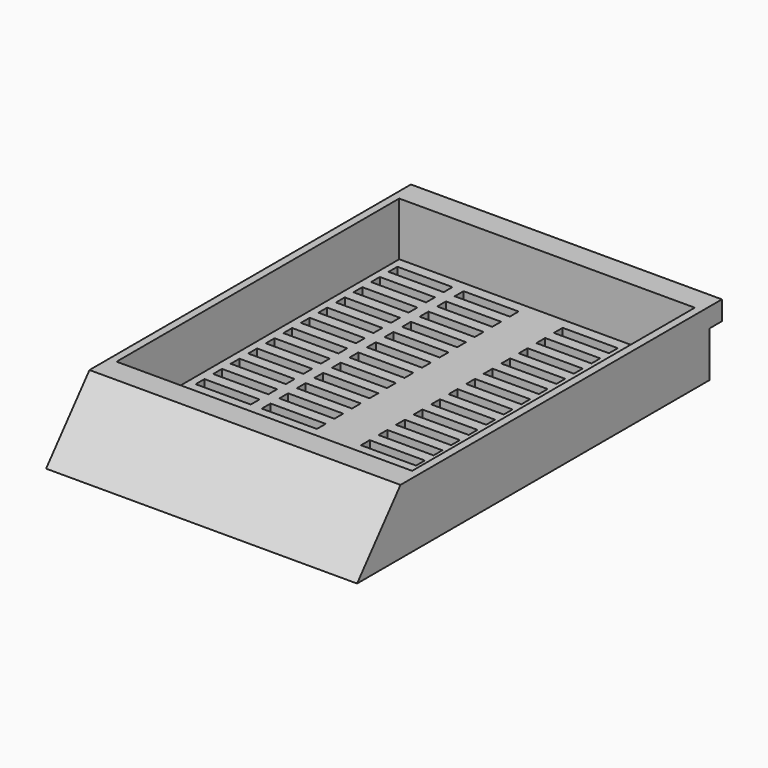
from build123d import *

# Parameters (mm, degrees)
F0_W     = 28.22
F0_H     = 39.98
F1_DEPTH = 5.88
F3_DEPTH = 28.22
F4_W     = 28.22
F4_H     = 1.75
F5_DEPTH = 1.4
F7_DEPTH = 4.85
F8_W     = 5
F8_H     = 1
F9_DEPTH = 25.4


with BuildPart() as f1:
    # F0 (on Top) → F1 (new body)
    with BuildSketch(Plane.XY):
        with Locations((1.965678, -9.638943)):
            Rectangle(F0_W, F0_H)
    extrude(amount=F1_DEPTH)

    # F2 (on face) → F3 (cut, through all)
    with BuildSketch(Plane(origin=(-12.144322, 0, 0), x_dir=(0, -1, 0), z_dir=(-1, 0, 0))):
        Polygon((24.708943, 5.88), (29.628943, 0), (29.628943, 5.88), align=None)
    extrude(amount=-F3_DEPTH, mode=Mode.SUBTRACT)

    # F4 (on face) → F5 (join)
    with BuildSketch(Plane(origin=(0, 10.351057, 0), x_dir=(-1, 0, 0), z_dir=(0, 1, 0))):
        with Locations((-1.965678, 5.005)):
            Rectangle(F4_W, F4_H)
    extrude(amount=F5_DEPTH)

    # F6 (on face) → F7 (cut)
    with BuildSketch(Plane.XY.offset(5.88)):
        Polygon((13.608205, 9.551057), (-11.444322, 9.551057), (-11.444322, -6.478943), (-11.444322, -22.508943), (15.375678, -22.508943), (15.375678, -6.478943), (15.375678, 9.551057), align=None)
    extrude(amount=-F7_DEPTH, mode=Mode.SUBTRACT)

    # F8 (on face) → F9 (cut)
    with BuildSketch(Plane.XY.offset(5.88)):
        with Locations((-8.3264, 8.06845)):
            Rectangle(F8_W, F8_H)
        with Locations((-2.3264, 8.06845)):
            Rectangle(F8_W, F8_H)
        with Locations((12.6736, 8.06845)):
            Rectangle(F8_W, F8_H)
        with Locations((6.6736, 8.06845)):
            Rectangle(F8_W, F8_H)
        with Locations((-2.317806, 6.068468)):
            Rectangle(F8_W, F8_H)
        with Locations((12.682194, 6.068468)):
            Rectangle(F8_W, F8_H)
        with Locations((6.682194, 6.068468)):
            Rectangle(F8_W, F8_H)
        with Locations((-8.317806, 6.068468)):
            Rectangle(F8_W, F8_H)
        with Locations((-2.309211, 4.068486)):
            Rectangle(F8_W, F8_H)
        with Locations((12.690789, 4.068486)):
            Rectangle(F8_W, F8_H)
        with Locations((6.690789, 4.068486)):
            Rectangle(F8_W, F8_H)
        with Locations((-8.309211, 4.068486)):
            Rectangle(F8_W, F8_H)
        with Locations((-2.300617, 2.068505)):
            Rectangle(F8_W, F8_H)
        with Locations((12.699383, 2.068505)):
            Rectangle(F8_W, F8_H)
        with Locations((6.699383, 2.068505)):
            Rectangle(F8_W, F8_H)
        with Locations((-8.300617, 2.068505)):
            Rectangle(F8_W, F8_H)
        with Locations((-2.292023, 0.068523)):
            Rectangle(F8_W, F8_H)
        with Locations((12.707977, 0.068523)):
            Rectangle(F8_W, F8_H)
        with Locations((6.707977, 0.068523)):
            Rectangle(F8_W, F8_H)
        with Locations((-8.292023, 0.068523)):
            Rectangle(F8_W, F8_H)
        with Locations((-2.283429, -1.931458)):
            Rectangle(F8_W, F8_H)
        with Locations((12.716571, -1.931458)):
            Rectangle(F8_W, F8_H)
        with Locations((6.716571, -1.931458)):
            Rectangle(F8_W, F8_H)
        with Locations((-8.283429, -1.931458)):
            Rectangle(F8_W, F8_H)
        with Locations((-2.274835, -3.93144)):
            Rectangle(F8_W, F8_H)
        with Locations((12.725165, -3.93144)):
            Rectangle(F8_W, F8_H)
        with Locations((6.725165, -3.93144)):
            Rectangle(F8_W, F8_H)
        with Locations((-8.274835, -3.93144)):
            Rectangle(F8_W, F8_H)
        with Locations((-2.266241, -5.931421)):
            Rectangle(F8_W, F8_H)
        with Locations((12.733759, -5.931421)):
            Rectangle(F8_W, F8_H)
        with Locations((6.733759, -5.931421)):
            Rectangle(F8_W, F8_H)
        with Locations((-8.266241, -5.931421)):
            Rectangle(F8_W, F8_H)
        with Locations((-2.257646, -7.931403)):
            Rectangle(F8_W, F8_H)
        with Locations((12.742354, -7.931403)):
            Rectangle(F8_W, F8_H)
        with Locations((6.742354, -7.931403)):
            Rectangle(F8_W, F8_H)
        with Locations((-8.257646, -7.931403)):
            Rectangle(F8_W, F8_H)
        with Locations((-2.249052, -9.931384)):
            Rectangle(F8_W, F8_H)
        with Locations((12.750948, -9.931384)):
            Rectangle(F8_W, F8_H)
        with Locations((6.750948, -9.931384)):
            Rectangle(F8_W, F8_H)
        with Locations((-8.249052, -9.931384)):
            Rectangle(F8_W, F8_H)
        with Locations((-2.240458, -11.931366)):
            Rectangle(F8_W, F8_H)
        with Locations((12.759542, -11.931366)):
            Rectangle(F8_W, F8_H)
        with Locations((6.759542, -11.931366)):
            Rectangle(F8_W, F8_H)
        with Locations((-8.240458, -11.931366)):
            Rectangle(F8_W, F8_H)
        with Locations((-2.231864, -13.931347)):
            Rectangle(F8_W, F8_H)
        with Locations((12.768136, -13.931347)):
            Rectangle(F8_W, F8_H)
        with Locations((6.768136, -13.931347)):
            Rectangle(F8_W, F8_H)
        with Locations((-8.231864, -13.931347)):
            Rectangle(F8_W, F8_H)
        with Locations((-2.22327, -15.931329)):
            Rectangle(F8_W, F8_H)
        with Locations((12.77673, -15.931329)):
            Rectangle(F8_W, F8_H)
        with Locations((6.77673, -15.931329)):
            Rectangle(F8_W, F8_H)
        with Locations((-8.22327, -15.931329)):
            Rectangle(F8_W, F8_H)
        with Locations((-2.214675, -17.93131)):
            Rectangle(F8_W, F8_H)
        with Locations((12.785325, -17.93131)):
            Rectangle(F8_W, F8_H)
        with Locations((6.785325, -17.93131)):
            Rectangle(F8_W, F8_H)
        with Locations((-8.214675, -17.93131)):
            Rectangle(F8_W, F8_H)
        with Locations((-2.206081, -19.931292)):
            Rectangle(F8_W, F8_H)
        with Locations((12.793919, -19.931292)):
            Rectangle(F8_W, F8_H)
        with Locations((6.793919, -19.931292)):
            Rectangle(F8_W, F8_H)
        with Locations((-8.206081, -19.931292)):
            Rectangle(F8_W, F8_H)
    extrude(amount=-F9_DEPTH, mode=Mode.SUBTRACT)


solid = f1.part
